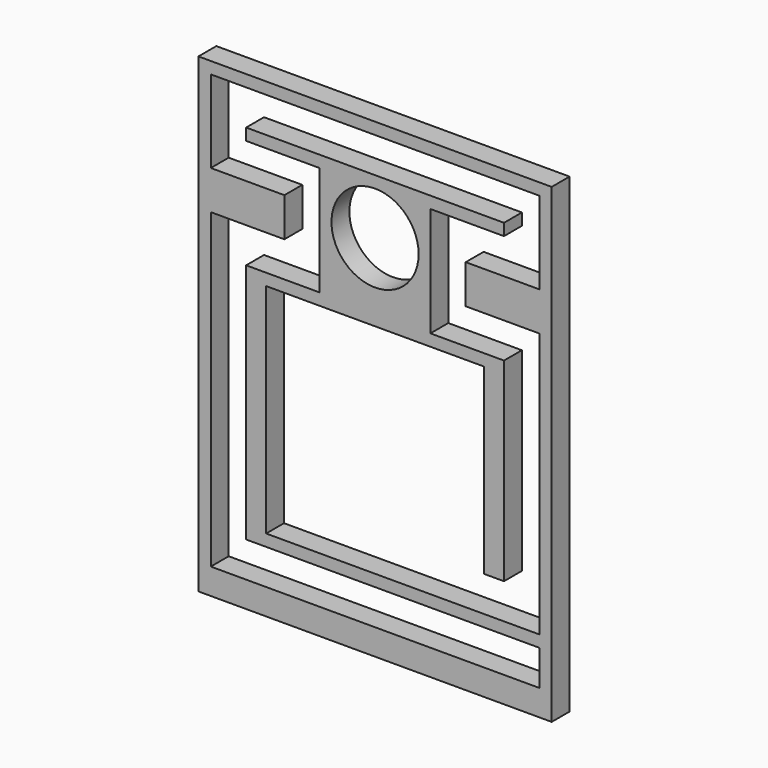
from build123d import *

# Parameters (mm, degrees)
F0_W     = 300
F0_H     = 400
F1_DEPTH = 19
F2_R     = 37
F3_DEPTH = 19


with BuildPart() as f1:
    # F0 (on Front) → F1 (new body)
    with BuildSketch(Plane.XZ):
        with Locations((-11.305695, 109.049384)):
            Rectangle(F0_W, F0_H)
    extrude(amount=F1_DEPTH)

    # F2 (on face) → F3 (cut)
    with BuildSketch(Plane.XZ.offset(19)):
        with Locations((-11.305695, 222.049384)):
            Circle(F2_R)
        Polygon((128.194305, -68.950616), (128.194305, -38.950616), (-120.805695, -38.950616), (-120.805695, 166.049384), (-58.305695, 166.049384), (-58.305695, 259.049384), (-120.805695, 259.049384), (-120.805695, 269.049384), (98.194305, 269.049384), (98.194305, 259.049384), (35.694305, 259.049384), (35.694305, 166.049384), (98.194305, 166.049384), (98.194305, 1.049384), (81.194305, 1.049384), (81.194305, 156.049384), (-103.805695, 156.049384), (-103.805695, -28.950616), (128.194305, -28.950616), (128.194305, 196.049384), (65.694305, 196.049384), (65.694305, 229.049384), (128.194305, 229.049384), (128.194305, 299.049384), (-150.805695, 299.049384), (-150.805695, 229.049384), (-88.305695, 229.049384), (-88.305695, 196.049384), (-150.805695, 196.049384), (-150.805695, -68.950616), align=None)
        Polygon((128.194305, -68.950616), (128.194305, -38.950616), (-120.805695, -38.950616), (-120.805695, 166.049384), (-58.305695, 166.049384), (-58.305695, 259.049384), (-120.805695, 259.049384), (-120.805695, 269.049384), (98.194305, 269.049384), (98.194305, 259.049384), (35.694305, 259.049384), (35.694305, 166.049384), (98.194305, 166.049384), (98.194305, 1.049384), (81.194305, 1.049384), (81.194305, 156.049384), (-103.805695, 156.049384), (-103.805695, -28.950616), (128.194305, -28.950616), (128.194305, 196.049384), (65.694305, 196.049384), (65.694305, 229.049384), (128.194305, 229.049384), (128.194305, 299.049384), (-150.805695, 299.049384), (-150.805695, 229.049384), (-88.305695, 229.049384), (-88.305695, 196.049384), (-150.805695, 196.049384), (-150.805695, -68.950616), align=None)
    extrude(amount=-F3_DEPTH, mode=Mode.SUBTRACT)


solid = f1.part
